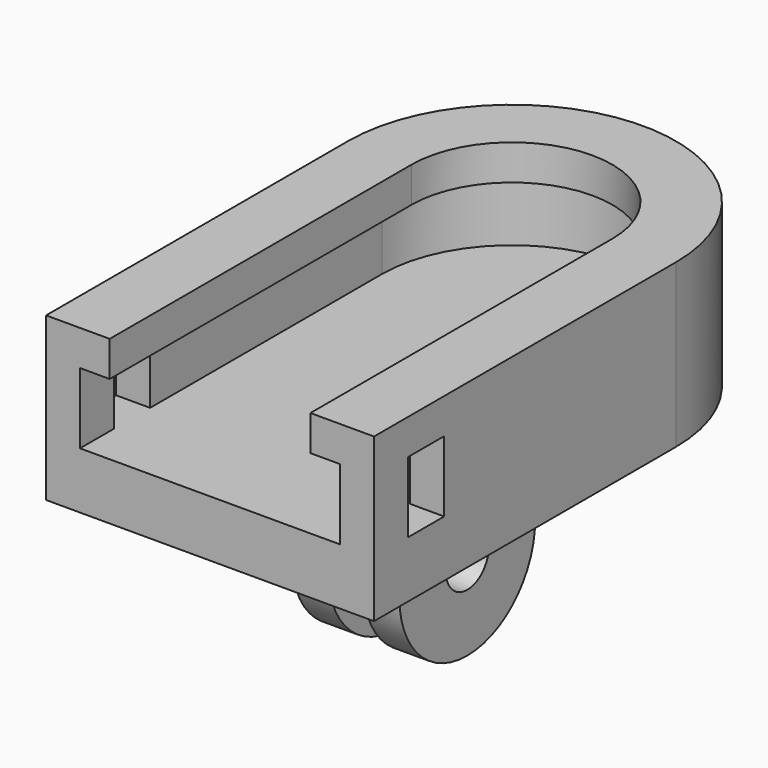
from build123d import *

# Parameters (mm, degrees)
F1_ANGLE = 180
F2_DEPTH = 33.909
F3_W     = 4.064
F3_H     = 6.35
F4_DEPTH = 29.465
F5_R     = 2.413
F6_DEPTH = 4.826
F8_DEPTH = 25.4


with BuildPart() as f1:
    # F0 (on Front) → F1 (revolve)
    with BuildSketch(Plane.XZ):
        Polygon((-14.732, 0), (0, 0), (0, 5.08), (-11.684, 5.08), (-11.684, 11.43), (-9.017, 11.43), (-9.017, 14.605), (-14.732, 14.605), align=None)
        Polygon((-14.732, 0), (0, 0), (0, 5.08), (-11.684, 5.08), (-11.684, 11.43), (-9.017, 11.43), (-9.017, 14.605), (-14.732, 14.605), align=None)
    revolve(axis=Axis((0, 0, 6.597309), (0, 0, -1)), revolution_arc=F1_ANGLE)

    # F1_face (on face) → F2 (join)
    with BuildSketch(Plane(origin=(0, 0, 5.216983), x_dir=(1, 0, 0), z_dir=(0, -1, 0))):
        Polygon((-14.732, -5.216983), (14.732, -5.216983), (14.732, 9.388017), (9.017, 9.388017), (9.017, 6.213017), (11.684, 6.213017), (11.684, -0.136983), (-11.684, -0.136983), (-11.684, 6.213017), (-9.017, 6.213017), (-9.017, 9.388017), (-14.732, 9.388017), align=None)
    extrude(amount=F2_DEPTH)

    # F3 (on face) → F4 (cut, through all)
    with BuildSketch(Plane.YZ.offset(14.732)):
        with Locations((-28.067, 8.255)):
            Rectangle(F3_W, F3_H)
    extrude(amount=-F4_DEPTH, mode=Mode.SUBTRACT)

    # F5 (on Right) → F6 (join, symmetric)
    with BuildSketch(Plane.YZ):
        with BuildLine():
            Line((-3.429, -7.62), (-3.429, 0))
            Line((-3.429, 0), (-18.669, 0))
            Line((-18.669, 0), (-18.669, -7.62))
            ThreePointArc((-18.669, -7.62), (-16.437154, -13.008154), (-11.049, -15.24))
            ThreePointArc((-11.049, -15.24), (-5.660846, -13.008154), (-3.429, -7.62))
        make_face()
        with Locations((-11.049, -7.62)):
            Circle(F5_R, mode=Mode.SUBTRACT)
    extrude(amount=F6_DEPTH, both=True)

    # F7 (on face) → F8 (cut)
    with BuildSketch(Plane.XZ.offset(18.669)):
        Polygon((1.5875, 0), (-1.5875, 0), (-1.5875, -7.62), (0, -7.62), (1.5875, -7.62), align=None)
        Polygon((0, -7.62), (-1.5875, -7.62), (-1.5875, -17.78), (1.5875, -17.78), (1.5875, -7.62), align=None)
    extrude(amount=-F8_DEPTH, mode=Mode.SUBTRACT)


solid = f1.part
